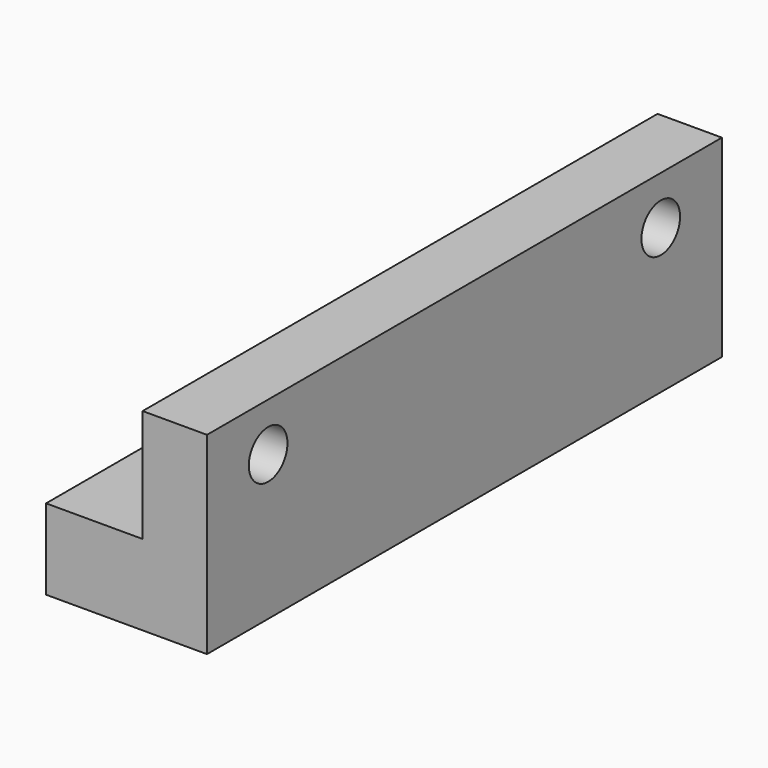
from build123d import *

# Parameters (mm, degrees)
F1_DEPTH = 40
F3_D     = 3
F4_W     = 6
F4_H     = 14
F5_DEPTH = 25


with BuildPart() as f1:
    # F0 (on Front) → F1 (new body)
    with BuildSketch(Plane.XZ):
        Polygon((0, 5), (0, 0), (10, 0), (10, 12), (6, 12), (6, 5), align=None)
    extrude(amount=F1_DEPTH)

    # F3 (through all)
    with Locations(Plane(origin=(6, 0, 0), x_dir=(0, -1, 0), z_dir=(-1, 0, 0))):
        with Locations((35.25, 9), (4.75, 9)):
            Hole(F3_D / 2)

    # F4 (on face) → F5 (cut)
    with BuildSketch(Plane(origin=(0, 0, 0), x_dir=(1, 0, 0), z_dir=(0, 0, -1))):
        with Locations((3, 20)):
            Rectangle(F4_W, F4_H)
    extrude(amount=-F5_DEPTH, mode=Mode.SUBTRACT)


solid = f1.part
